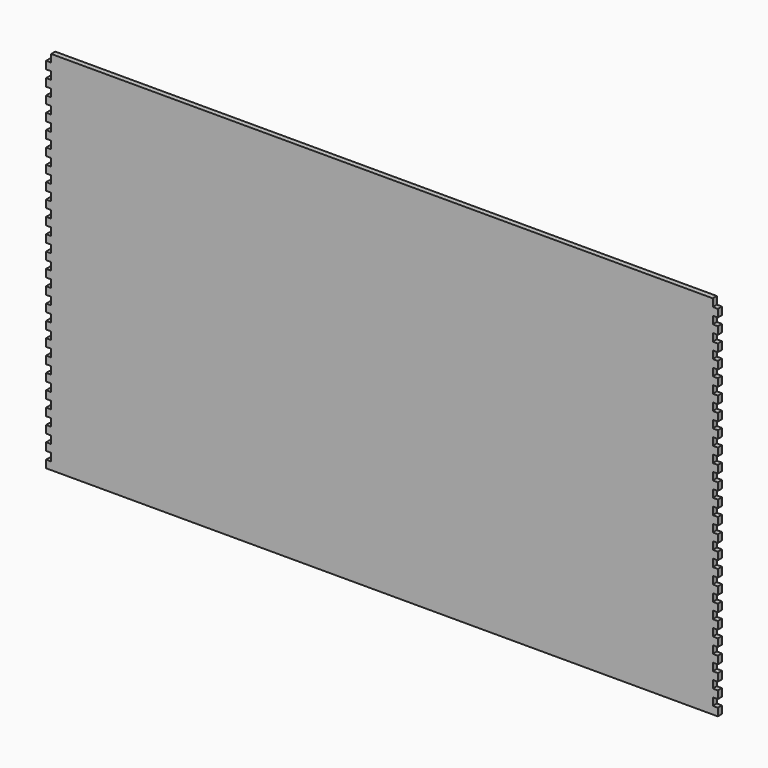
from build123d import *

# Parameters (mm, degrees)
F1_DEPTH = 6.35


with BuildPart() as f1:
    # F0 (on Front) → F1 (new body)
    with BuildSketch(Plane.XZ):
        Polygon((412.75, 219.075), (412.75, 228.6), (0, 228.6), (0, -228.6), (419.1, -228.6), (419.1, -219.075), (412.75, -219.075), (412.75, -209.55), (419.1, -209.55), (419.1, -200.025), (412.75, -200.025), (412.75, -190.5), (419.1, -190.5), (419.1, -180.975), (412.75, -180.975), (412.75, -171.45), (419.1, -171.45), (419.1, -161.925), (412.75, -161.925), (412.75, -152.4), (419.1, -152.4), (419.1, -142.875), (412.75, -142.875), (412.75, -133.35), (419.1, -133.35), (419.1, -123.825), (412.75, -123.825), (412.75, -114.3), (419.1, -114.3), (419.1, -104.775), (412.75, -104.775), (412.75, -95.25), (419.1, -95.25), (419.1, -85.725), (412.75, -85.725), (412.75, -76.2), (419.1, -76.2), (419.1, -66.675), (412.75, -66.675), (412.75, -57.15), (419.1, -57.15), (419.1, -47.625), (412.75, -47.625), (412.75, -38.1), (419.1, -38.1), (419.1, -28.575), (412.75, -28.575), (412.75, -19.05), (419.1, -19.05), (419.1, -9.525), (412.75, -9.525), (412.75, 0), (419.1, 0), (419.1, 9.525), (412.75, 9.525), (412.75, 19.05), (419.1, 19.05), (419.1, 28.575), (412.75, 28.575), (412.75, 38.1), (419.1, 38.1), (419.1, 47.625), (412.75, 47.625), (412.75, 57.15), (419.1, 57.15), (419.1, 66.675), (412.75, 66.675), (412.75, 76.2), (419.1, 76.2), (419.1, 85.725), (412.75, 85.725), (412.75, 95.25), (419.1, 95.25), (419.1, 104.775), (412.75, 104.775), (412.75, 114.3), (419.1, 114.3), (419.1, 123.825), (412.75, 123.825), (412.75, 133.35), (419.1, 133.35), (419.1, 142.875), (412.75, 142.875), (412.75, 152.4), (419.1, 152.4), (419.1, 161.925), (412.75, 161.925), (412.75, 171.45), (419.1, 171.45), (419.1, 180.975), (412.75, 180.975), (412.75, 190.5), (419.1, 190.5), (419.1, 200.025), (412.75, 200.025), (412.75, 209.55), (419.1, 209.55), (419.1, 219.075), align=None)
        Polygon((0, -228.6), (0, 228.6), (-412.75, 228.6), (-412.75, 219.075), (-419.1, 219.075), (-419.1, 209.55), (-412.75, 209.55), (-412.75, 200.025), (-419.1, 200.025), (-419.1, 190.5), (-412.75, 190.5), (-412.75, 180.975), (-419.1, 180.975), (-419.1, 171.45), (-412.75, 171.45), (-412.75, 161.925), (-419.1, 161.925), (-419.1, 152.4), (-412.75, 152.4), (-412.75, 142.875), (-419.1, 142.875), (-419.1, 133.35), (-412.75, 133.35), (-412.75, 123.825), (-419.1, 123.825), (-419.1, 114.3), (-412.75, 114.3), (-412.75, 104.775), (-419.1, 104.775), (-419.1, 95.25), (-412.75, 95.25), (-412.75, 85.725), (-419.1, 85.725), (-419.1, 76.2), (-412.75, 76.2), (-412.75, 66.675), (-419.1, 66.675), (-419.1, 57.15), (-412.75, 57.15), (-412.75, 47.625), (-419.1, 47.625), (-419.1, 38.1), (-412.75, 38.1), (-412.75, 28.575), (-419.1, 28.575), (-419.1, 19.05), (-412.75, 19.05), (-412.75, 9.525), (-419.1, 9.525), (-419.1, 0), (-412.75, 0), (-412.75, -9.525), (-419.1, -9.525), (-419.1, -19.05), (-412.75, -19.05), (-412.75, -28.575), (-419.1, -28.575), (-419.1, -38.1), (-412.75, -38.1), (-412.75, -47.625), (-419.1, -47.625), (-419.1, -57.15), (-412.75, -57.15), (-412.75, -66.675), (-419.1, -66.675), (-419.1, -76.2), (-412.75, -76.2), (-412.75, -85.725), (-419.1, -85.725), (-419.1, -95.25), (-412.75, -95.25), (-412.75, -104.775), (-419.1, -104.775), (-419.1, -114.3), (-412.75, -114.3), (-412.75, -123.825), (-419.1, -123.825), (-419.1, -133.35), (-412.75, -133.35), (-412.75, -142.875), (-419.1, -142.875), (-419.1, -152.4), (-412.75, -152.4), (-412.75, -161.925), (-419.1, -161.925), (-419.1, -171.45), (-412.75, -171.45), (-412.75, -180.975), (-419.1, -180.975), (-419.1, -190.5), (-412.75, -190.5), (-412.75, -200.025), (-419.1, -200.025), (-419.1, -209.55), (-412.75, -209.55), (-412.75, -219.075), (-419.1, -219.075), (-419.1, -228.6), align=None)
    extrude(amount=F1_DEPTH)


solid = f1.part
